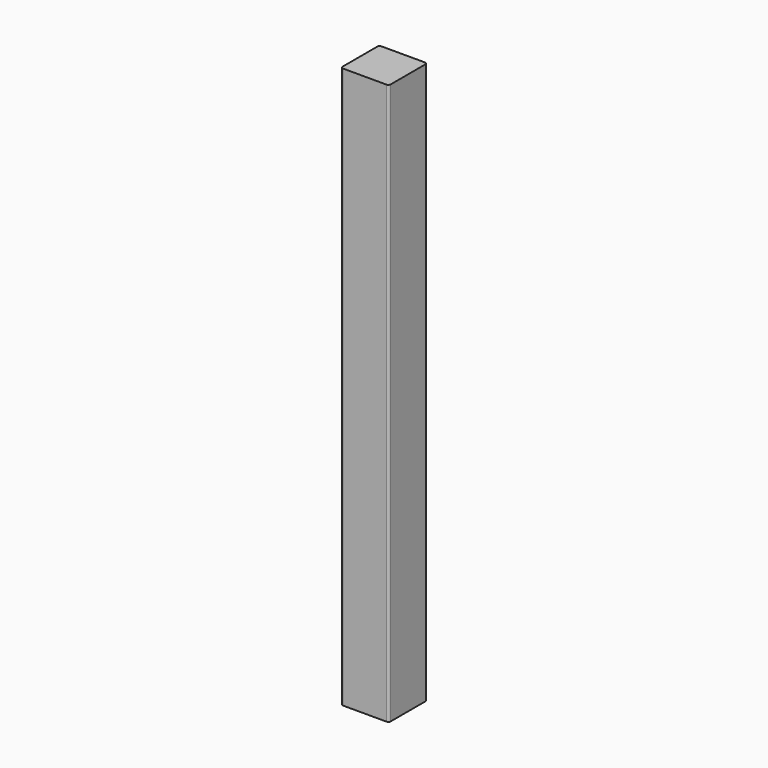
from build123d import *

# Parameters (mm, degrees)
PAD_DEPTH = 700


with BuildPart() as part:
    # Sketch → Pad (new body)
    with BuildSketch(Plane.XY):
        with BuildLine():
            Line((-27, 30), (27, 30))
            ThreePointArc((30, 27), (29.12132, 29.12132), (27, 30))
            Line((30, 27), (30, -27))
            ThreePointArc((27, -30), (29.12132, -29.12132), (30, -27))
            Line((27, -30), (-27, -30))
            ThreePointArc((-30, -27), (-29.12132, -29.12132), (-27, -30))
            Line((-30, -27), (-30, 27))
            ThreePointArc((-27, 30), (-29.12132, 29.12132), (-30, 27))
        make_face()
    extrude(amount=PAD_DEPTH)


solid = part.part
